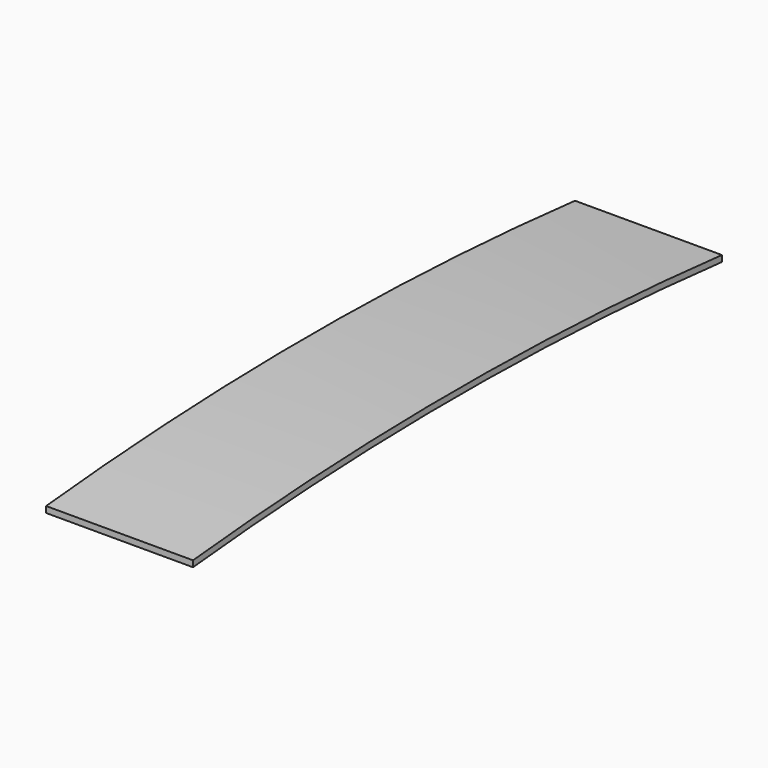
from build123d import *

# Parameters (mm, degrees)
F1_DEPTH = 114.3


with BuildPart() as f1:
    # F0 (on Right) → F1 (new body)
    with BuildSketch(Plane.YZ):
        with BuildLine():
            ThreePointArc((0, 0), (514.35, 25.4), (1028.7, 0))
            Line((1028.7, 0), (1028.7, 9.571484))
            ThreePointArc((1028.7, 9.571484), (514.35, 34.925), (0, 9.571484))
            Line((0, 9.571484), (0, 0))
        make_face()
    extrude(amount=F1_DEPTH)

    # F2: F1 across face


with BuildPart() as f1_1:
    add(f1.part)
    add(f1.part.mirror(Plane(origin=(0, 514.35, 21.700839), x_dir=(0, 1, 0), z_dir=(-1, 0, 0))))


solid = f1_1.part
